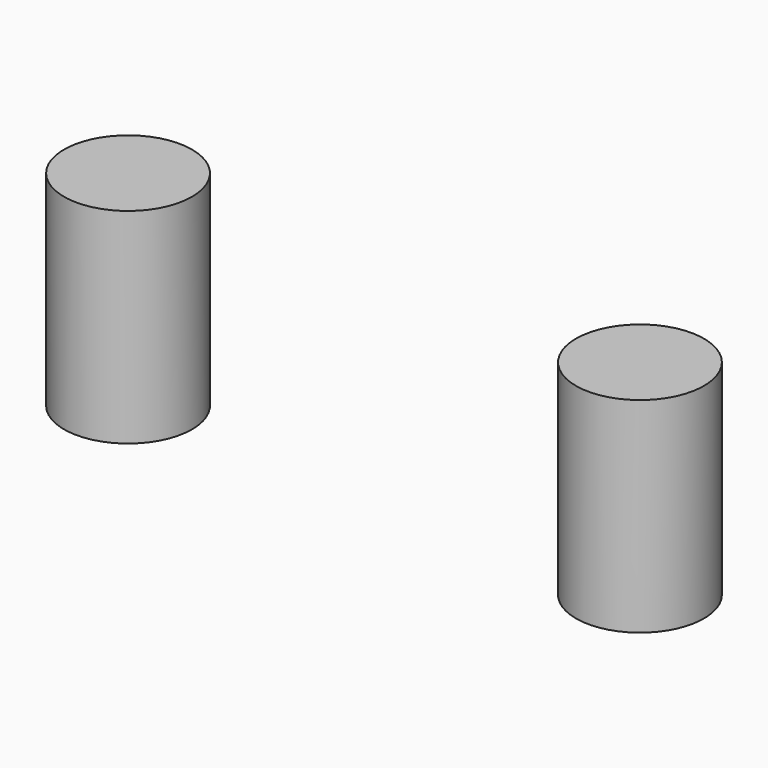
from build123d import *

# Parameters (mm, degrees)
CYLINDER004_R     = 7.5
CYLINDER004_DEPTH = 24


with BuildPart() as cylinder002:
    # Cylinder004 → Cylinder004 (new body)
    with BuildSketch(Plane(origin=(-30, 0, -24), x_dir=(1, 0, 0), z_dir=(0, 0, 1))):
        Circle(CYLINDER004_R)
    extrude(amount=CYLINDER004_DEPTH)


with BuildPart() as obj1:
    # obj1: instance of Cylinder002
    add(cylinder002.part.mirror(Plane(origin=(0, 0, 0), x_dir=(0, -1, 0), z_dir=(1, 0, 0))))


with BuildPart() as linear_bearings:
    # Fusion004 base: copy of Cylinder002
    add(cylinder002.part)

    # Fusion004: union obj1
    add(obj1.part)


with BuildPart() as linear_bearings_1:
    # Fusion004 placement: moved
    add(linear_bearings.part.moved(Location((0, 0, -12))))


solid = linear_bearings_1.part
